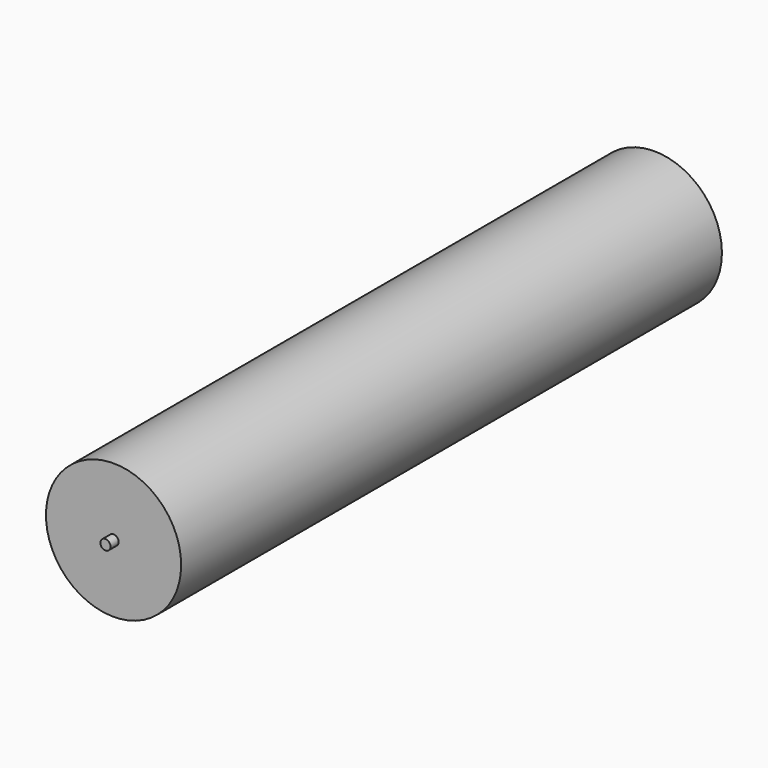
from build123d import *

# Parameters (mm, degrees)
F0_R     = 0.1905
F1_DEPTH = 0.381
F0_R_2   = 2.54
F2_DEPTH = 25.4
F3_DEPTH = 25.4


with BuildPart() as f1:
    # F0 (on Front) → F1 (new body)
    with BuildSketch(Plane.XZ):
        Circle(F0_R)
    extrude(amount=F1_DEPTH)

    # F0 (on Front) → F2 (join)
    with BuildSketch(Plane.XZ):
        Circle(F0_R_2)
        Circle(F0_R, mode=Mode.SUBTRACT)
    extrude(amount=-F2_DEPTH)

    # F3 (add): a face of the model
    f3_faces = [f1.faces().sort_by_distance(p)[0] for p in [
        (0, -0.381, 0),
    ]]
    extrude(f3_faces, amount=-F3_DEPTH)


solid = f1.part
